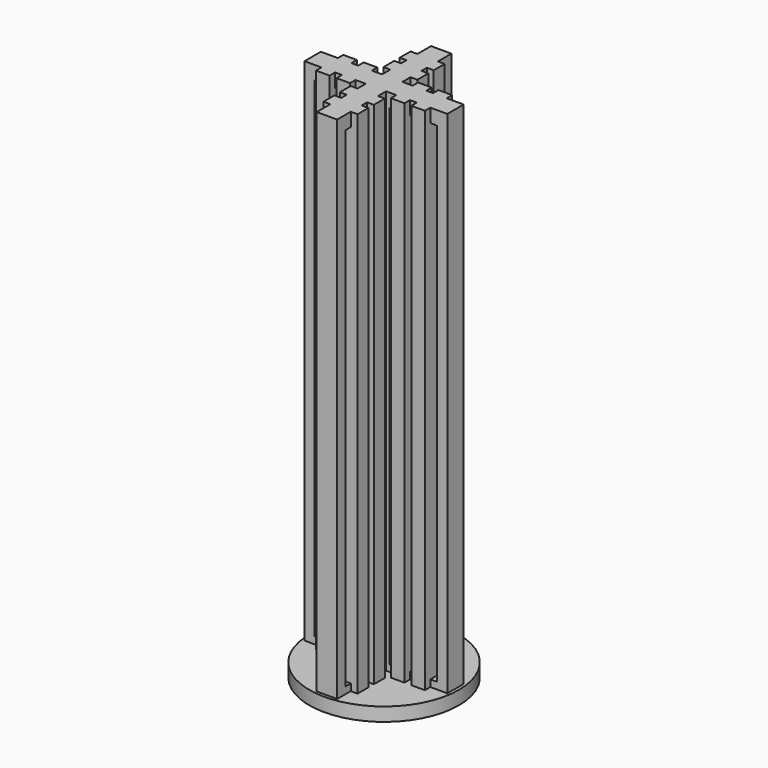
from build123d import *

# Parameters (mm, degrees)
F0_R     = 11
F1_DEPTH = 2
F2_W     = 9
F2_H     = 3
F2_W_2   = 3
F2_H_2   = 9
F3_DEPTH = 1
F4_W     = 1.5
F4_H     = 3
F4_W_2   = 3
F4_H_2   = 1.5
F5_DEPTH = 75
F6_W     = 3
F6_H     = 9
F6_W_2   = 9
F6_H_2   = 3
F7_DEPTH = 2


with BuildPart() as f1:
    # F0 (on Top) → F1 (new body)
    with BuildSketch(Plane.XY):
        Circle(F0_R)
    extrude(amount=F1_DEPTH)

    # F2 (on face) → F3 (join)
    with BuildSketch(Plane.XY.offset(2)):
        with Locations((-6, 0)):
            Rectangle(F2_W, F2_H)
        with Locations((6, 0)):
            Rectangle(F2_W, F2_H)
        with Locations((0, 6)):
            Rectangle(F2_W_2, F2_H_2)
        with Locations((0, -6)):
            Rectangle(F2_W_2, F2_H_2)
        with Locations((6, 0)):
            Rectangle(F2_W, F2_H)
    extrude(amount=F3_DEPTH)

    # F4 (on face) → F5 (join)
    with BuildSketch(Plane.XY.offset(2)):
        with Locations((9.75, 0)):
            Rectangle(F4_W, F4_H)
        Polygon((8, -1.5), (8, 1.5), (8, 2.5), (6, 2.5), (6, 1.5), (6, -1.5), (6, -2.5), (8, -2.5), align=None)
        Polygon((5, -1.5), (5, 1.5), (5, 2.5), (3, 2.5), (3, 1.5), (3, -1.5), (3, -2.5), (5, -2.5), align=None)
        Polygon((2, -1.5), (2, 1.5), (1.5, 1.5), (1.5, 2), (-1.5, 2), (-1.5, 1.5), (-2, 1.5), (-2, -1.5), (-1.5, -1.5), (-1.5, -2), (1.5, -2), (1.5, -1.5), align=None)
        Polygon((2.5, 6), (2.5, 8), (1.5, 8), (-1.5, 8), (-2.5, 8), (-2.5, 6), (-1.5, 6), (1.5, 6), align=None)
        Polygon((2.5, 3), (2.5, 5), (1.5, 5), (-1.5, 5), (-2.5, 5), (-2.5, 3), (-1.5, 3), (1.5, 3), align=None)
        with Locations((0, 9.75)):
            Rectangle(F4_W_2, F4_H_2)
        Polygon((-6, 2.5), (-8, 2.5), (-8, 1.5), (-8, -1.5), (-8, -2.5), (-6, -2.5), (-6, -1.5), (-6, 1.5), align=None)
        Polygon((-3, 2.5), (-5, 2.5), (-5, 1.5), (-5, -1.5), (-5, -2.5), (-3, -2.5), (-3, -1.5), (-3, 1.5), align=None)
        with Locations((-9.75, 0)):
            Rectangle(F4_W, F4_H)
        Polygon((-2.5, -6), (-2.5, -8), (-1.5, -8), (1.5, -8), (2.5, -8), (2.5, -6), (1.5, -6), (-1.5, -6), align=None)
        Polygon((-2.5, -3), (-2.5, -5), (-1.5, -5), (1.5, -5), (2.5, -5), (2.5, -3), (1.5, -3), (-1.5, -3), align=None)
        with Locations((0, -9.75)):
            Rectangle(F4_W_2, F4_H_2)
    extrude(amount=F5_DEPTH)

    # F6 (on face) → F7 (join)
    with BuildSketch(Plane.XY.offset(77)):
        with Locations((0, 6)):
            Rectangle(F6_W, F6_H)
        with Locations((-6, 0)):
            Rectangle(F6_W_2, F6_H_2)
        with Locations((0, -6)):
            Rectangle(F6_W, F6_H)
        with Locations((6, 0)):
            Rectangle(F6_W_2, F6_H_2)
    extrude(amount=-F7_DEPTH)


solid = f1.part
